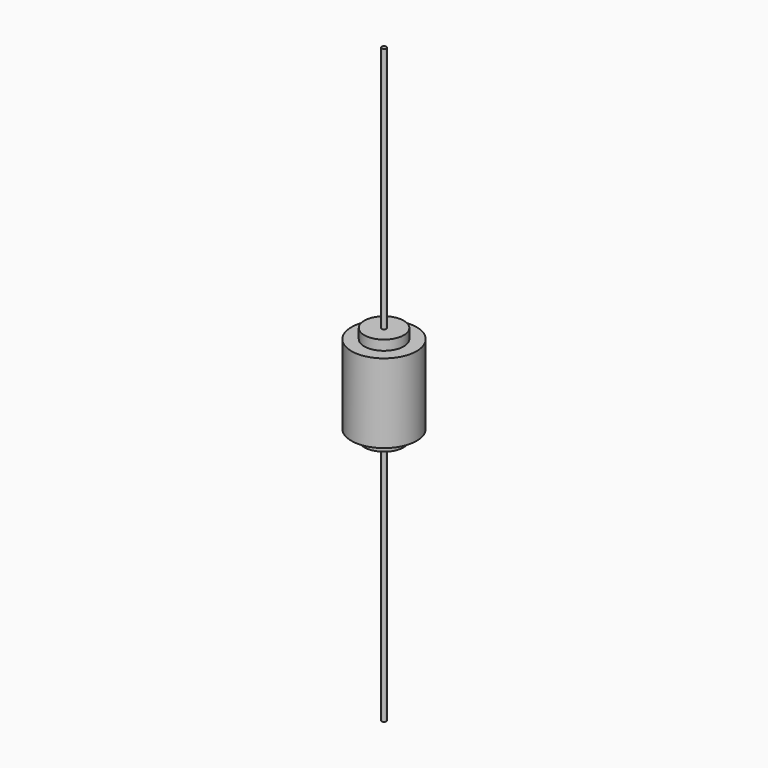
from build123d import *

# Parameters (mm, degrees)
F0_R          = 0.3175
F1_DEPTH      = 38.1
F1_DEPTH_BACK = 38.1
F0_R_2        = 2.54
F2_DEPTH      = 6.35
F2_DEPTH_BACK = 6.35
F0_R_3        = 4.191
F3_DEPTH      = 5.08
F3_DEPTH_BACK = 5.08


with BuildPart() as f1:
    # F0 (on Top) → F1 (new body, two sides)
    with BuildSketch(Plane.XY) as f1_sk:
        Circle(F0_R)
    extrude(amount=F1_DEPTH)
    extrude(f1_sk.sketch, amount=-F1_DEPTH_BACK)

    # F0 (on Top) → F2 (join, two sides)
    with BuildSketch(Plane.XY) as f2_sk:
        Circle(F0_R_2)
        Circle(F0_R, mode=Mode.SUBTRACT)
    extrude(amount=F2_DEPTH)
    extrude(f2_sk.sketch, amount=-F2_DEPTH_BACK)

    # F0 (on Top) → F3 (join, two sides)
    with BuildSketch(Plane.XY) as f3_sk:
        Circle(F0_R_3)
        Circle(F0_R_2, mode=Mode.SUBTRACT)
    extrude(amount=F3_DEPTH)
    extrude(f3_sk.sketch, amount=-F3_DEPTH_BACK)


solid = f1.part
